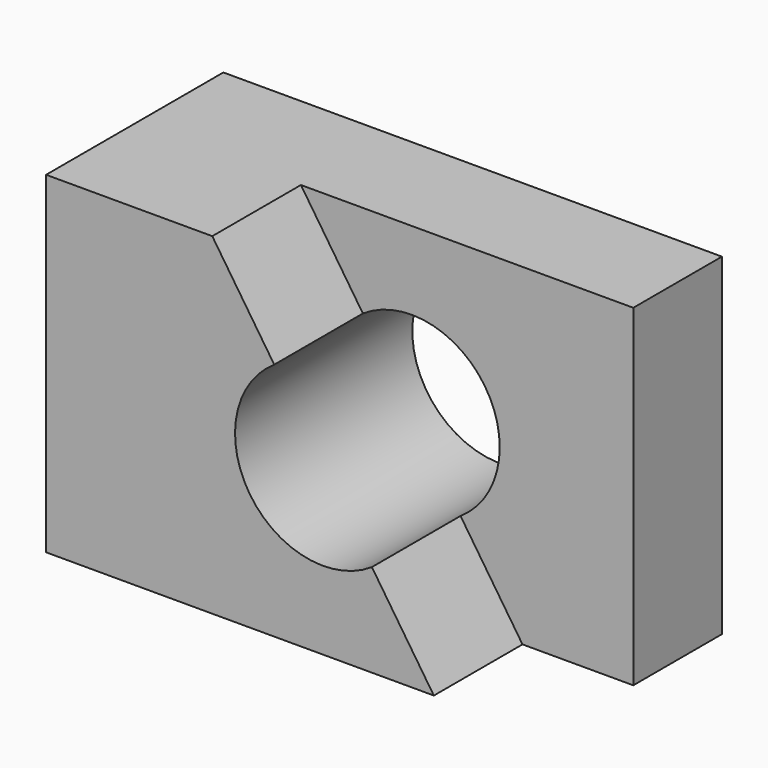
from build123d import *

# Parameters (mm, degrees)
F0_W     = 57.15
F0_H     = 38.1
F1_DEPTH = 12.7
F3_DEPTH = 12.7
F4_R     = 10.090212
F5_DEPTH = 25.4


with BuildPart() as f1:
    # F0 (on Front) → F1 (new body)
    with BuildSketch(Plane.XZ):
        with Locations((28.575, 19.05)):
            Rectangle(F0_W, F0_H)
    extrude(amount=F1_DEPTH)

    # F2 (on face) → F3 (join)
    with BuildSketch(Plane.XZ.offset(12.7)):
        Polygon((19.05, 38.1), (0, 38.1), (0, 0), (44.45, 0), align=None)
    extrude(amount=F3_DEPTH)

    # F4 (on face) → F5 (cut)
    with BuildSketch(Plane.XZ.offset(25.4)):
        with Locations((31.75, 19.05)):
            Circle(F4_R)
    extrude(amount=-F5_DEPTH, mode=Mode.SUBTRACT)


solid = f1.part
